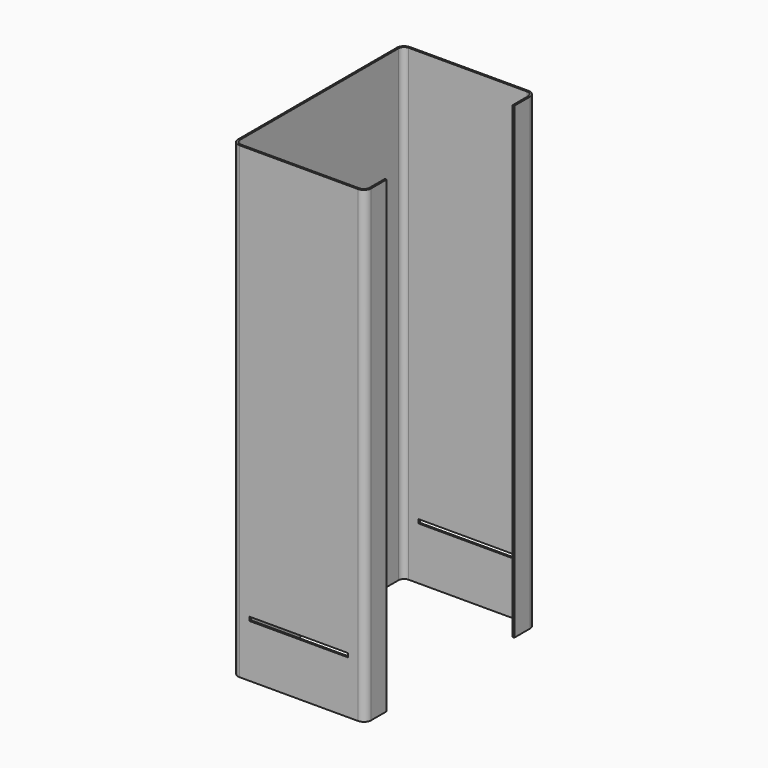
from build123d import *

# Parameters (mm, degrees)
F1_DEPTH = 1341
F2_W     = 283
F2_H     = 11
F3_DEPTH = 610


with BuildPart() as f1:
    # F0 (on Top) → F1 (new body)
    with BuildSketch(Plane.XY):
        with BuildLine():
            Line((-360, 0), (-21, 0))
            ThreePointArc((-21, 0), (-6.150758, 6.150758), (0, 21))
            Line((0, 21), (0, 76.5))
            Line((0, 76.5), (-5, 76.5))
            Line((-5, 76.5), (-5, 21))
            ThreePointArc((-5, 21), (-9.686292, 9.686292), (-21, 5))
            Line((-21, 5), (-360, 5))
            ThreePointArc((-360, 5), (-371.313708, 9.686292), (-376, 21))
            Line((-376, 21), (-376, 589))
            ThreePointArc((-376, 589), (-371.313708, 600.313708), (-360, 605))
            Line((-360, 605), (-21, 605))
            ThreePointArc((-21, 605), (-9.686292, 600.313708), (-5, 589))
            Line((-5, 589), (-5, 533.5))
            Line((-5, 533.5), (0, 533.5))
            Line((0, 533.5), (0, 589))
            ThreePointArc((0, 589), (-6.150758, 603.849242), (-21, 610))
            Line((-21, 610), (-360, 610))
            ThreePointArc((-360, 610), (-374.849242, 603.849242), (-381, 589))
            Line((-381, 589), (-381, 21))
            ThreePointArc((-381, 21), (-374.849242, 6.150758), (-360, 0))
        make_face()
    extrude(amount=F1_DEPTH)

    # F2 (on face) → F3 (cut, through all)
    with BuildSketch(Plane(origin=(0, 610, 0), x_dir=(-1, 0, 0), z_dir=(0, 1, 0))):
        with Locations((190.5, 156.5)):
            Rectangle(F2_W, F2_H)
    extrude(amount=-F3_DEPTH, mode=Mode.SUBTRACT)


solid = f1.part
